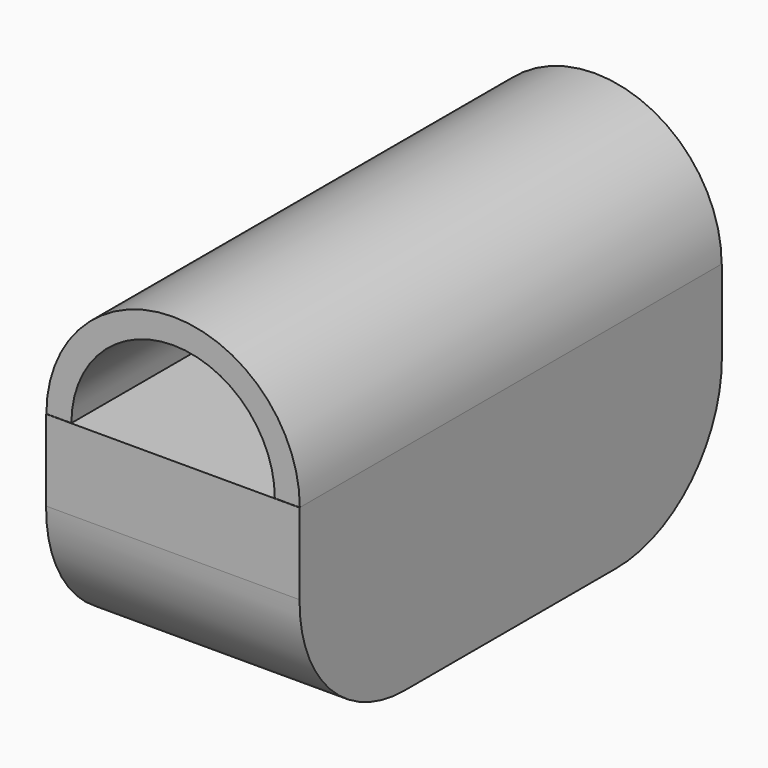
from build123d import *

# Parameters (mm, degrees)
F1_DEPTH      = 82.423
F1_DEPTH_BACK = 82.423
F3_DEPTH      = 39.624


with BuildPart() as f1:
    # F0 (on Front) → F1 (new body, two sides)
    with BuildSketch(Plane.XZ) as f1_sk:
        with BuildLine():
            Line((39.3192023039, 0), (39.6240018308, 0))
            ThreePointArc((39.6240018308, 0), (0, 39.6240018308), (-39.6240018308, 0))
            Line((-39.6240018308, 0), (-39.3191985786, 0))
            Line((-39.3191985786, 0), (-31.7990560208, 0))
            ThreePointArc((-31.7990560208, 0), (0, 31.7990560208), (31.7990560208, 0))
            Line((31.7990560208, 0), (39.3192023039, 0))
        make_face()
    extrude(amount=F1_DEPTH)
    extrude(f1_sk.sketch, amount=-F1_DEPTH_BACK)


with BuildPart() as f3:
    # F2 (on Right) → F3 (new body, symmetric)
    with BuildSketch(Plane.YZ):
        with BuildLine():
            Line((-41.3485467434, -67.0133009553), (0, -67.0133009553))
            Line((0, -67.0133009553), (41.3485467434, -67.0133009553))
            ThreePointArc((41.3485467434, -67.0133009553), (70.6452529952, -54.7765374968), (82.5344696641, -25.3370758146))
            Line((82.5344696641, -25.3370758146), (82.5344696641, 0))
            Line((82.5344696641, 0), (-82.5344696641, 0))
            Line((-82.5344696641, 0), (-82.5344696641, -25.3370758146))
            ThreePointArc((-82.5344696641, -25.3370758146), (-70.6452529952, -54.7765374968), (-41.3485467434, -67.0133009553))
        make_face()
    extrude(amount=F3_DEPTH, both=True)


solid = Compound([f1.part, f3.part])
